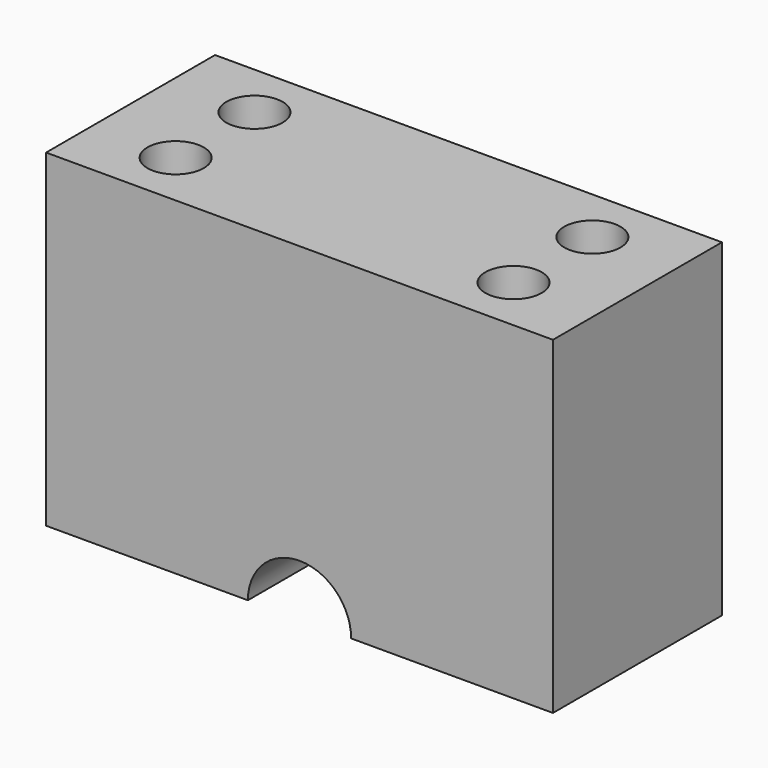
from build123d import *

# Parameters (mm, degrees)
F1_DEPTH = 45
F2_R     = 6
F3_DEPTH = 30
F4_R     = 3
F5_DEPTH = 40.001


with BuildPart() as f1:
    # F0 (on Front) → F1 (new body)
    with BuildSketch(Plane.XZ):
        with BuildLine():
            Line((-43, 0), (0, 0))
            Line((0, 0), (0, 70))
            Line((0, 70), (-108, 70))
            Line((-108, 70), (-108, 0))
            Line((-108, 0), (-65, 0))
            ThreePointArc((-65, 0), (-54, 11), (-43, 0))
        make_face()
    extrude(amount=F1_DEPTH)

    # F2 (on face) → F3 (cut)
    with BuildSketch(Plane.XY.offset(70)):
        with Locations((-90, -12)):
            Circle(F2_R)
        with Locations((-90, -33)):
            Circle(F2_R)
        with Locations((-18, -12)):
            Circle(F2_R)
        with Locations((-18, -33)):
            Circle(F2_R)
    extrude(amount=-F3_DEPTH, mode=Mode.SUBTRACT)

    # F4 (on face) → F5 (cut, through all)
    with BuildSketch(Plane.XY.offset(40)):
        with Locations((-90, -12)):
            Circle(F4_R)
        with Locations((-18, -12)):
            Circle(F4_R)
        with Locations((-18, -33)):
            Circle(F4_R)
        with Locations((-90, -33)):
            Circle(F4_R)
    extrude(amount=-F5_DEPTH, mode=Mode.SUBTRACT)


solid = f1.part
